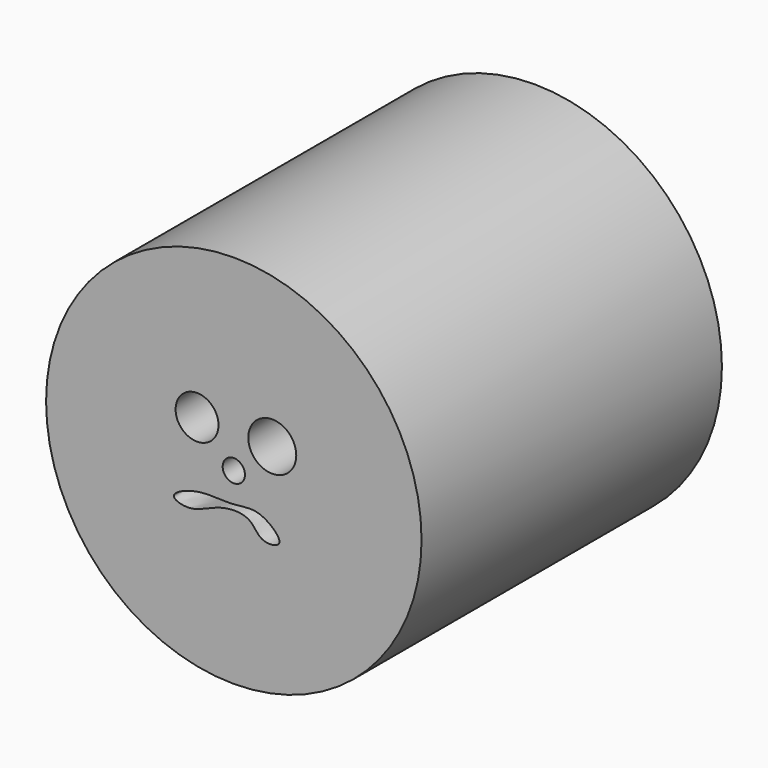
from build123d import *

# Parameters (mm, degrees)
F0_R     = 12.7
F0_R_2   = 0.7532790997
F0_R_3   = 1.4513017317
F0_R_4   = 1.6222668948
F1_DEPTH = 25.4


with BuildPart() as f1:
    # F0 (on Front) → F1 (new body)
    with BuildSketch(Plane.XZ):
        Circle(F0_R)
        with BuildLine():
            add(Edge.make_bspline(
                [(-4.0561081842, -2.8364022728), (-4.0763596525, -2.5640098122), (-2.3429758685, -1.7679761001), (-0.0069012459, -2.1848302418), (1.696749571, -1.6083519579), (3.7745993281, -3.4927666815), (1.7002206611, -3.7310493868), (1.2253439775, -2.2812771985), (-1.0922202113, -2.3192531608), (-2.737617241, -3.452370805), (-4.0396198042, -3.0581792969), (-4.0561081842, -2.8364022728)],
                knots=[0, 0, 0, 0, 0.1111469629, 0.2474440862, 0.3621300893, 0.4766867062, 0.5666255964, 0.6639181781, 0.7842230792, 0.9095061493, 1, 1, 1, 1], degree=3))
        make_face(mode=Mode.SUBTRACT)
        Circle(F0_R_2, mode=Mode.SUBTRACT)
        with Locations((-2.4876389652, 2.3720995523)):
            Circle(F0_R_3, mode=Mode.SUBTRACT)
        with Locations((2.6024875697, 2.2833179682)):
            Circle(F0_R_4, mode=Mode.SUBTRACT)
    extrude(amount=F1_DEPTH)


solid = f1.part
